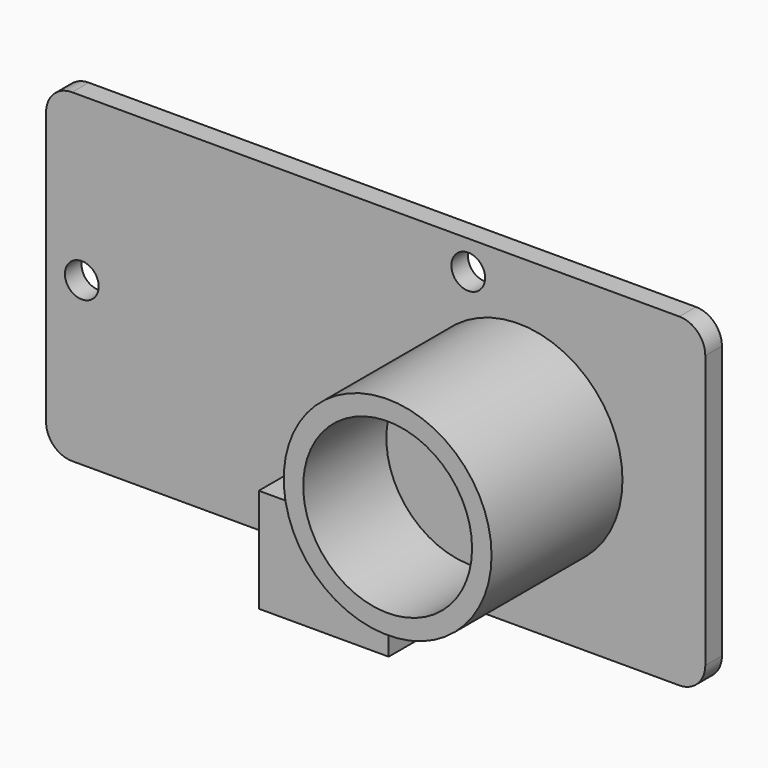
from build123d import *

# Parameters (mm, degrees)
SKETCH_W        = 50.75
SKETCH_H        = 25
PAD_DEPTH       = 1.6
FILLET_R        = 2
SKETCH001_R     = 1.3
POCKET_DEPTH    = 1.601
SKETCH002_R     = 8
PAD001_DEPTH    = 12.6
SKETCH003_R     = 6.5
POCKET001_DEPTH = 8
SKETCH004_W     = 10
SKETCH004_H     = 8
PAD002_DEPTH    = 5
SKETCH005_W     = 41.75
SKETCH005_H     = 15
PAD003_DEPTH    = 1.65


with BuildPart() as mainplate:
    # Sketch → Pad (new body)
    with BuildSketch(Plane.XZ):
        Rectangle(SKETCH_W, SKETCH_H)
    extrude(amount=-PAD_DEPTH)

    # Fillet
    fillet_edges = [mainplate.edges().sort_by_distance(p)[0] for p in [
        (25.375, 0.8, 12.5),
        (-25.375, 0.8, 12.5),
        (-25.375, 0.8, -12.5),
        (25.375, 0.8, -12.5),
    ]]
    fillet(fillet_edges, radius=FILLET_R)

    # Sketch001 → Pocket (cut, through all)
    with BuildSketch(Plane.XZ):
        with Locations((-22.625, 0)):
            Circle(SKETCH001_R)
        with Locations((7.125, 10.25)):
            Circle(SKETCH001_R)
        with Locations((7.125, -10.25)):
            Circle(SKETCH001_R)
    extrude(amount=-POCKET_DEPTH, mode=Mode.SUBTRACT)


with BuildPart() as obj1:
    # Sketch002 → Pad001 (new body)
    with BuildSketch(Plane.XZ):
        with Locations((-11, 0)):
            Circle(SKETCH002_R)
    extrude(amount=PAD001_DEPTH)

    # Sketch003 (on Face3 of Pad001) → Pocket001 (cut)
    with BuildSketch(Plane.XZ.offset(12.6)):
        with Locations((-11, 0)):
            Circle(SKETCH003_R)
    extrude(amount=-POCKET001_DEPTH, mode=Mode.SUBTRACT)


with BuildPart() as obj1_1:
    # Body002 placement: moved
    add(obj1.part.moved(Location((22, 0, 0))))


with BuildPart() as obj2:
    # Sketch004 → Pad002 (new body)
    with BuildSketch(Plane.XZ):
        with Locations((0, -10.5)):
            Rectangle(SKETCH004_W, SKETCH004_H)
    extrude(amount=PAD002_DEPTH)


with BuildPart() as chips:
    # Sketch005 (on Face1 of CopyPocket) → Pad003 (new body)
    with BuildSketch(Plane(origin=(0, 1.6, 0), x_dir=(1, 0, 0), z_dir=(0, 1, 0))):
        Rectangle(SKETCH005_W, SKETCH005_H)
    extrude(amount=PAD003_DEPTH)


solid = Compound([mainplate.part, obj1_1.part, obj2.part, chips.part])
